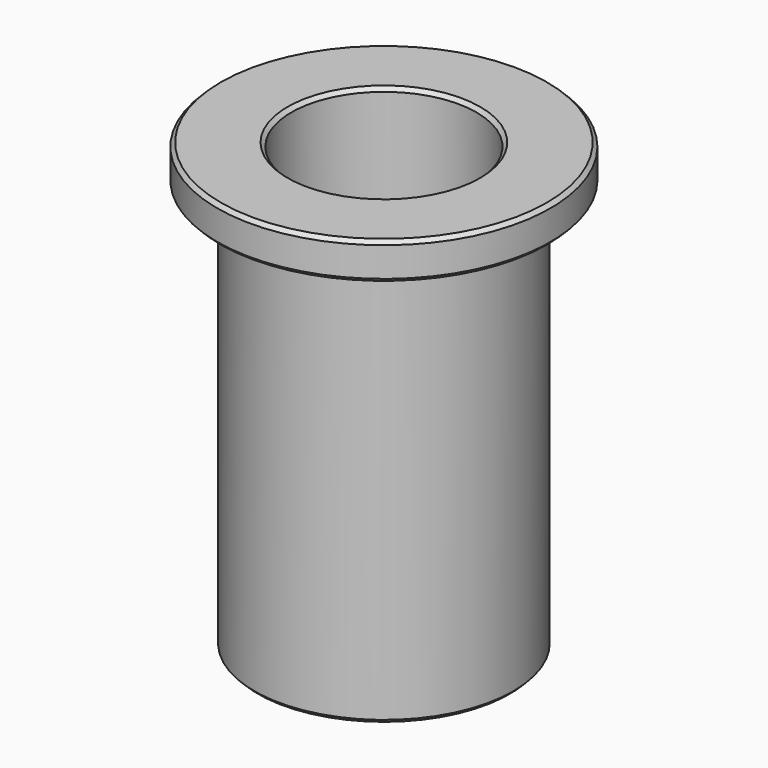
from build123d import *

# Parameters (mm, degrees)
F2_R          = 5
F3_DEPTH      = 12.001
F3_DEPTH_BACK = 25
F4_SIZE       = 0.2
F5_R          = 0.2


with BuildPart() as f1:
    # F0 (on Front) → F1 (revolve)
    with BuildSketch(Plane.XZ):
        Polygon((0, -12), (0, 12), (-9, 12), (-9, 10), (-6.99, 10), (-6.99, -12), align=None)
    revolve(axis=Axis((0, 0, -0.6447483601), (0, 0, -1)))

    # F2 (on Top) → F3 (cut, two sides)
    with BuildSketch(Plane.XY) as f3_sk:
        Circle(F2_R)
    extrude(amount=-F3_DEPTH, mode=Mode.SUBTRACT)
    extrude(f3_sk.sketch, amount=F3_DEPTH_BACK, mode=Mode.SUBTRACT)

    # F4
    f4_edges = [f1.edges().sort_by_distance(p)[0] for p in [
        (-5, 0, -12),
        (6.99, 0, -12),
        (9, 0, 10),
        (9, 0, 12),
        (-5, 0, 12),
    ]]
    chamfer(f4_edges, length=F4_SIZE)

    # F5
    f5_edges = [f1.edges().sort_by_distance(p)[0] for p in [
        (6.99, 0, 10),
    ]]
    fillet(f5_edges, radius=F5_R)


solid = f1.part
